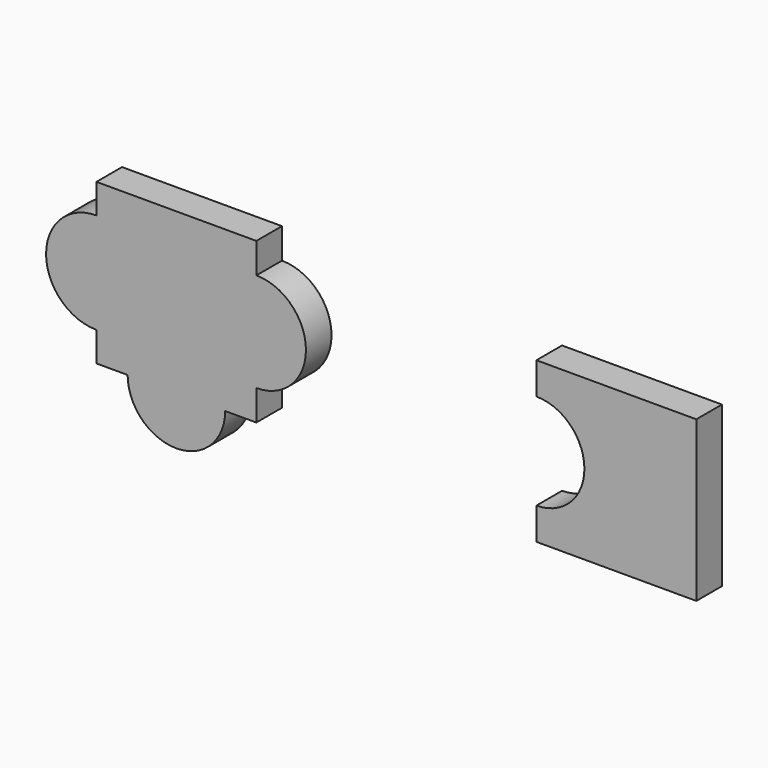
from build123d import *

# Parameters (mm, degrees)
F2_DEPTH = 2.54
F3_DEPTH = 2.54


with BuildPart() as f2:
    # F1 (on Front) → F2 (new body)
    with BuildSketch(Plane.XZ):
        with BuildLine():
            Line((-15.241104, 57.060856), (-27.941104, 57.060856))
            Line((-27.941104, 57.060856), (-27.941104, 54.520856))
            ThreePointArc((-27.941104, 54.520856), (-24.131104, 50.710856), (-27.941104, 46.900856))
            Line((-27.941104, 46.900856), (-27.941104, 44.360856))
            Line((-27.941104, 44.360856), (-15.241104, 44.360856))
            Line((-15.241104, 44.360856), (-15.241104, 57.060856))
        make_face()
    extrude(amount=F2_DEPTH)


with BuildPart() as f3:
    # F0 (on Front) → F3 (new body)
    with BuildSketch(Plane.XZ):
        Polygon((-50.184808, 58.170184), (-62.884808, 58.170184), (-62.884808, 55.820684), (-62.884808, 47.819684), (-62.884808, 45.470184), (-60.598808, 45.470184), (-60.408308, 45.470184), (-56.534808, 45.470184), (-52.661308, 45.470184), (-52.470808, 45.470184), (-50.184808, 45.470184), (-50.184808, 47.502184), (-50.184808, 47.883184), (-50.184808, 55.757184), (-50.184808, 56.138184), align=None)
        with BuildLine():
            Line((-62.884808, 47.819684), (-62.884808, 55.820684))
            ThreePointArc((-62.884808, 55.820684), (-66.885308, 51.820184), (-62.884808, 47.819684))
        make_face()
        with BuildLine():
            ThreePointArc((-50.184808, 47.883184), (-46.247808, 51.820184), (-50.184808, 55.757184))
            Line((-50.184808, 55.757184), (-50.184808, 47.883184))
        make_face()
        with BuildLine():
            Line((-56.534808, 45.470184), (-60.408308, 45.470184))
            ThreePointArc((-60.408308, 45.470184), (-56.534808, 41.596684), (-52.661308, 45.470184))
            Line((-52.661308, 45.470184), (-56.534808, 45.470184))
        make_face()
    extrude(amount=F3_DEPTH)


solid = Compound([f2.part, f3.part])
